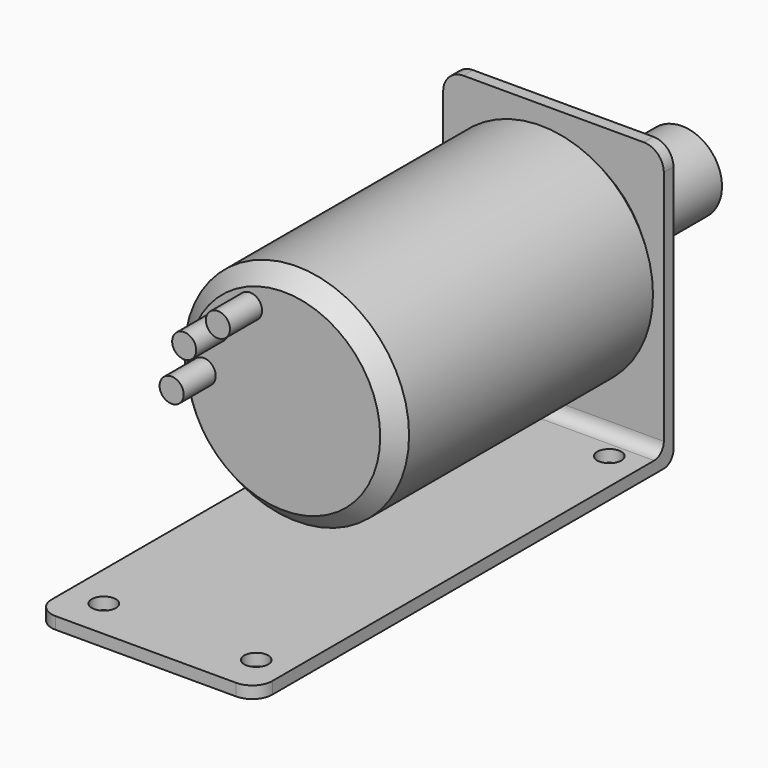
from build123d import *

# Parameters (mm, degrees)
F0_R           = 28
F1_DEPTH       = 84
F2_R           = 4
F3_DEPTH       = 20
F4_SIZE        = 4
F5_R           = 2
F6_DEPTH       = 25
F8_DEPTH       = 14
F9_R           = 3
F10_DEPTH      = 10
F11_W          = 55
F11_H          = 70
F11_R          = 24
F11_R_2        = 2
F11_R_3        = 5
F12_DEPTH      = 3
F13_W          = 130
F13_H          = 3
F14_DEPTH      = 55
F15_R          = 5
F16_R          = 3
F17_DEPTH      = 25
F18_R          = 3
F19_R          = 10
F20_DEPTH      = 20
F20_DEPTH_BACK = 13


with BuildPart() as f1:
    # F0 (on Front) → F1 (new body)
    with BuildSketch(Plane.XZ):
        Circle(F0_R)
    extrude(amount=F1_DEPTH)

    # F2 (on face) → F3 (join)
    with BuildSketch(Plane(origin=(0, 0, 0), x_dir=(-1, 0, 0), z_dir=(0, 1, 0))):
        Circle(F2_R)
    extrude(amount=F3_DEPTH)

    # F4
    f4_edges = [f1.edges().sort_by_distance(p)[0] for p in [
        (-28, 0, 0),
        (-28, -84, 0),
    ]]
    chamfer(f4_edges, length=F4_SIZE)

    # F5 (on face) → F6 (cut)
    with BuildSketch(Plane(origin=(0, 0, 0), x_dir=(-1, 0, 0), z_dir=(0, 1, 0))):
        with Locations((0, 13)):
            Circle(F5_R)
        with Locations((-11.2583302492, 6.5)):
            Circle(F5_R)
        with Locations((-11.2583302492, -6.5)):
            Circle(F5_R)
        with Locations((0, -13)):
            Circle(F5_R)
        with Locations((11.2583302492, -6.5)):
            Circle(F5_R)
        with Locations((11.2583302492, 6.5)):
            Circle(F5_R)
    extrude(amount=-F6_DEPTH, mode=Mode.SUBTRACT)

    # F7 (on face) → F8 (cut)
    with BuildSketch(Plane(origin=(0, 20, 0), x_dir=(-1, 0, 0), z_dir=(0, 1, 0))):
        with BuildLine():
            Line((-1.9828476231, 3.4739480859), (1.9828476231, 3.4739480859))
            ThreePointArc((1.9828476231, 3.4739480859), (0, 4), (-1.9828476231, 3.4739480859))
        make_face()
    extrude(amount=-F8_DEPTH, mode=Mode.SUBTRACT)

    # F9 (on face) → F10 (join)
    with BuildSketch(Plane.XZ.offset(84)):
        with Locations((-20, 0)):
            Circle(F9_R)
        with Locations((-16.8678289163, 10.7459921669)):
            Circle(F9_R)
        with Locations((-8.4523652348, 18.1261557407)):
            Circle(F9_R)
    extrude(amount=F10_DEPTH)


with BuildPart() as f12:
    # F11 (on face) → F12 (new body)
    with BuildSketch(Plane(origin=(0, 0, 0), x_dir=(-1, 0, 0), z_dir=(0, 1, 0))):
        with Locations((0, -5)):
            Rectangle(F11_W, F11_H)
        Circle(F11_R, mode=Mode.SUBTRACT)
        Circle(F11_R)
        with Locations((-11.2583302492, -6.5)):
            Circle(F11_R_2, mode=Mode.SUBTRACT)
        with Locations((0, -13)):
            Circle(F11_R_2, mode=Mode.SUBTRACT)
        with Locations((11.2583302492, -6.5)):
            Circle(F11_R_2, mode=Mode.SUBTRACT)
        with Locations((-11.2583302492, 6.5)):
            Circle(F11_R_2, mode=Mode.SUBTRACT)
        Circle(F11_R_3, mode=Mode.SUBTRACT)
        with Locations((11.2583302492, 6.5)):
            Circle(F11_R_2, mode=Mode.SUBTRACT)
        with Locations((0, 13)):
            Circle(F11_R_2, mode=Mode.SUBTRACT)
    extrude(amount=F12_DEPTH)

    # F13 (on face) → F14 (join)
    with BuildSketch(Plane(origin=(-27.5, 0, 0), x_dir=(0, -1, 0), z_dir=(-1, 0, 0))):
        with Locations((62, -38.5)):
            Rectangle(F13_W, F13_H)
    extrude(amount=-F14_DEPTH)

    # F15
    f15_edges = [f12.edges().sort_by_distance(p)[0] for p in [
        (27.5, 1.5, 30),
        (-27.5, 1.5, 30),
        (27.5, -127, -38.5),
        (-27.5, -127, -38.5),
    ]]
    fillet(f15_edges, radius=F15_R)

    # F16 (on face) → F17 (cut)
    with BuildSketch(Plane(origin=(0, 0, -40), x_dir=(1, 0, 0), z_dir=(0, 0, -1))):
        with Locations((19.5, 117)):
            Circle(F16_R)
        with Locations((19.5, 7)):
            Circle(F16_R)
        with Locations((-18.5, 117)):
            Circle(F16_R)
        with Locations((-18.5, 7)):
            Circle(F16_R)
    extrude(amount=-F17_DEPTH, mode=Mode.SUBTRACT)

    # F18
    f18_edges = [f12.edges().sort_by_distance(p)[0] for p in [
        (0, 0, -37),
        (0, 3, -40),
    ]]
    fillet(f18_edges, radius=F18_R)


with BuildPart() as f20:
    # F19 (on face) → F20 (new body, two sides)
    with BuildSketch(Plane(origin=(0, 20, 0), x_dir=(-1, 0, 0), z_dir=(0, 1, 0))) as f20_sk:
        Circle(F19_R)
        with BuildLine():
            ThreePointArc((4, 0), (-2.0085578791, -3.4591466066), (-1.9828476231, 3.4739480859))
            ThreePointArc((-1.9828476231, 3.4739480859), (0, 4), (1.9828476231, 3.4739480859))
            ThreePointArc((1.9828476231, 3.4739480859), (3.4591466066, 2.0085578791), (4, 0))
        make_face(mode=Mode.SUBTRACT)
    extrude(amount=F20_DEPTH)
    extrude(f20_sk.sketch, amount=-F20_DEPTH_BACK)


solid = Compound([f1.part, f12.part, f20.part])
